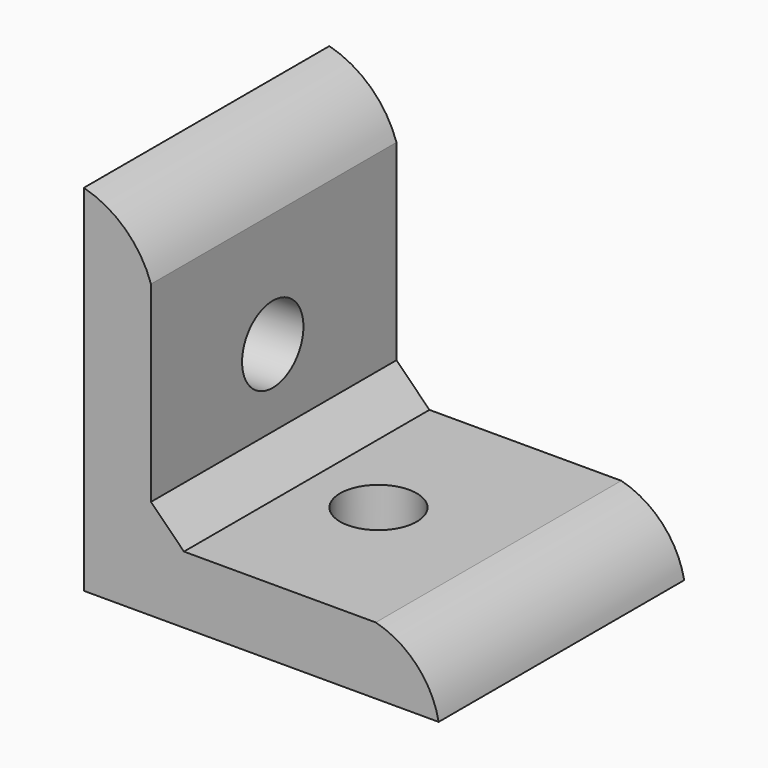
from build123d import *

# Parameters (mm, degrees)
F1_DEPTH = 32
F4_D     = 8
F5_D     = 8


with BuildPart() as f1:
    # F0 (on Front) → F1 (new body)
    with BuildSketch(Plane.XZ):
        with BuildLine():
            Line((0, 37), (0, 0))
            Line((0, 0), (37, 0))
            ThreePointArc((37, 0), (34.735887, 4.452031), (30.44, 7))
            Line((30.44, 7), (10.44, 7))
            Line((10.44, 7), (7, 10.44))
            Line((7, 10.44), (7, 30.44))
            ThreePointArc((7, 30.44), (4.330611, 34.606323), (0, 37))
        make_face()
    extrude(amount=F1_DEPTH)

    # F4 (through all)
    with Locations(Plane.YZ.offset(7)):
        with Locations((-16.124548, 18.460734)):
            Hole(F4_D / 2)

    # F5 (through all)
    with Locations(Plane.XY.offset(7)):
        with Locations((17.951785, -16.037369)):
            Hole(F5_D / 2)


solid = f1.part
